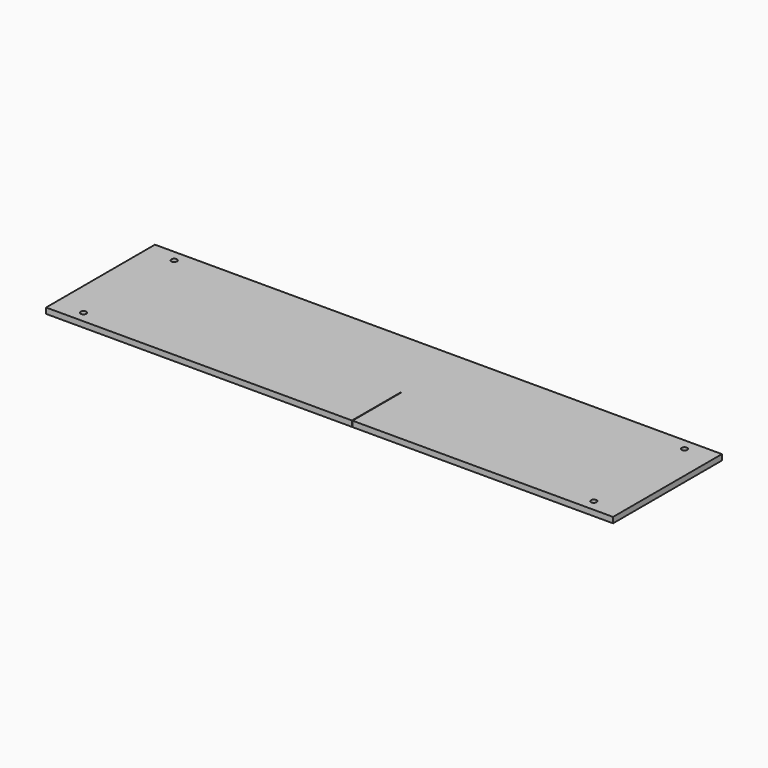
from build123d import *

# Parameters (mm, degrees)
F0_W     = 635
F0_H     = 152.4
F1_DEPTH = 6.35
F3_D     = 6.35
F4_W     = 0.5842
F4_H     = 68.2625
F5_DEPTH = 25.4


with BuildPart() as f1:
    # F0 (on Top) → F1 (new body)
    with BuildSketch(Plane.XY):
        Rectangle(F0_W, F0_H)
    extrude(amount=F1_DEPTH)

    # F3 (through all)
    with Locations(Plane.XY.offset(6.35)):
        with Locations((-285.75, 63.5), (-285.75, -63.5), (285.75, -63.5), (285.75, 63.5)):
            Hole(F3_D / 2)

    # F4 (on face) → F5 (cut)
    with BuildSketch(Plane.XY.offset(6.35)):
        with Locations((25.4, -42.06875)):
            Rectangle(F4_W, F4_H)
    extrude(amount=-F5_DEPTH, mode=Mode.SUBTRACT)


solid = f1.part
